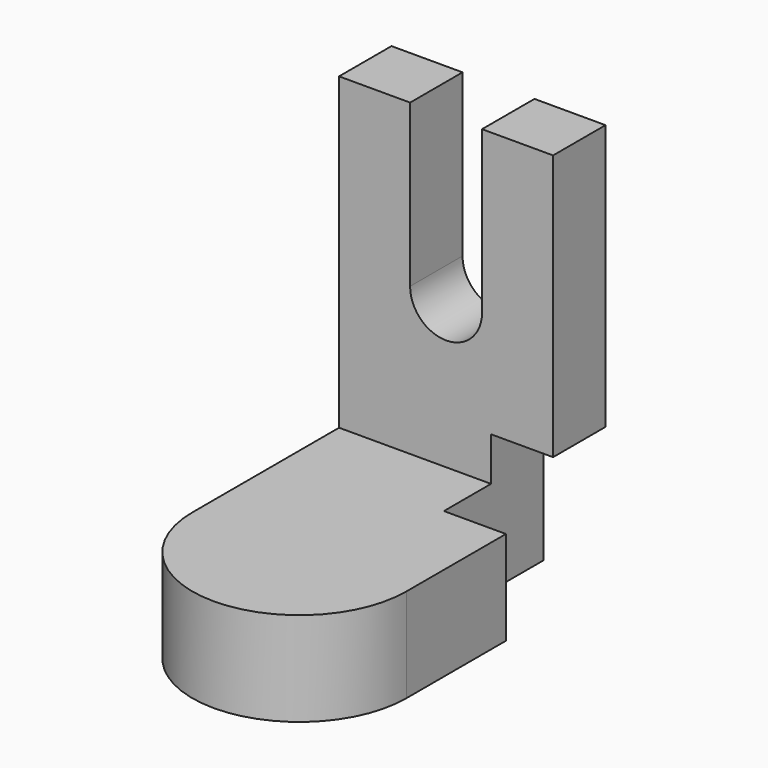
from build123d import *

# Parameters (mm, degrees)
F0_W      = 57.8200779855
F0_H      = 67.2501921654
F1_DEPTH  = 25.4
F2_W      = 57.8200779855
F2_H      = 17.7068114281
F3_DEPTH  = 83.566
F4_W      = 19.4322280586
F4_H      = 20.8092816174
F5_DEPTH  = 43.688
F6_R      = 9.7161140293
F7_DEPTH  = 25.4
F9_DEPTH  = 16.764
F10_R     = 28.9100389928
F11_DEPTH = 25.4


with BuildPart() as f1:
    # F0 (on Top) → F1 (new body)
    with BuildSketch(Plane.XY):
        Rectangle(F0_W, F0_H)
    extrude(amount=F1_DEPTH)

    # F2 (on face) → F3 (join)
    with BuildSketch(Plane.XY.offset(25.4)):
        with Locations((0, 24.7716903687)):
            Rectangle(F2_W, F2_H)
    extrude(amount=F3_DEPTH)

    # F4 (on face) → F5 (cut)
    with BuildSketch(Plane.XY.offset(108.966)):
        with Locations((0, 26.3229254633)):
            Rectangle(F4_W, F4_H)
    extrude(amount=-F5_DEPTH, mode=Mode.SUBTRACT)

    # F6 (on face) → F7 (cut)
    with BuildSketch(Plane.XZ.offset(-15.9182846546)):
        with Locations((0, 65.278)):
            Circle(F6_R)
    extrude(amount=-F7_DEPTH, mode=Mode.SUBTRACT)

    # F8 (on face) → F9 (cut)
    with BuildSketch(Plane.YZ.offset(28.9100389928)):
        Polygon((15.9182846546, 25.4), (0, 25.4), (0, 0), (33.6250960827, 0), (33.6250960827, 37.1936224401), (15.9182846546, 37.1936224401), align=None)
    extrude(amount=-F9_DEPTH, mode=Mode.SUBTRACT)

    # F10 (on face) → F11 (join)
    with BuildSketch(Plane(origin=(0, 0, 0), x_dir=(1, 0, 0), z_dir=(0, 0, -1))):
        with Locations((0, 33.6250960827)):
            Circle(F10_R)
    extrude(amount=-F11_DEPTH)


solid = f1.part
